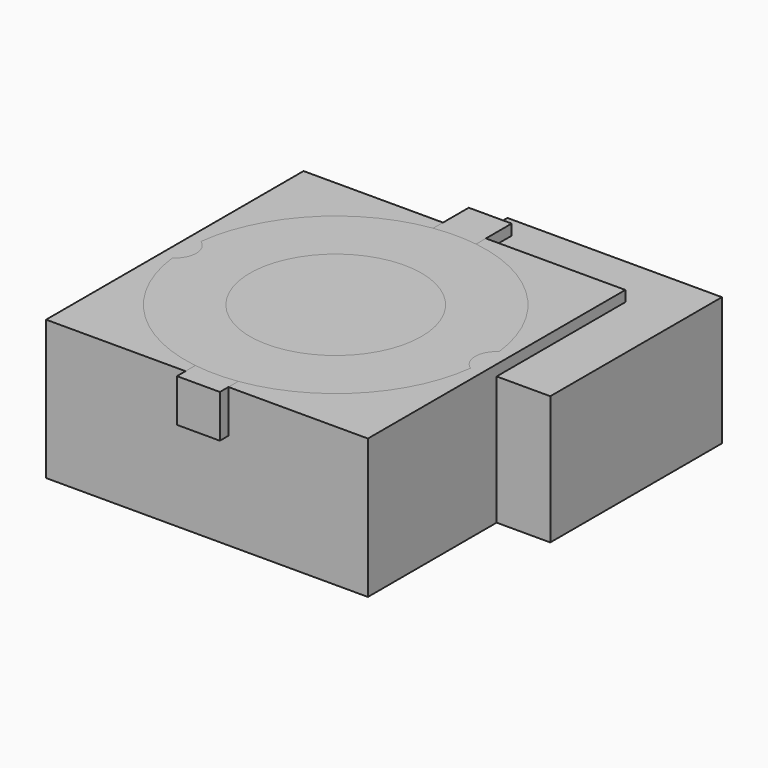
from build123d import *

# Parameters (mm, degrees)
BOX_W             = 15
BOX_H             = 15
BOX_DEPTH         = 6.5
BOX001_W          = 2
BOX001_H          = 3
BOX001_DEPTH      = 2
BOX002_W          = 2
BOX002_H          = 3
BOX002_DEPTH      = 2
CYLINDER_R        = 4.5
CYLINDER_DEPTH    = 1.4
CYLINDER003_R     = 1
CYLINDER003_DEPTH = 10
CYLINDER004_R     = 1
CYLINDER004_DEPTH = 10
CYLINDER001_R     = 4
CYLINDER001_DEPTH = 0.6
CYLINDER002_R     = 7
CYLINDER002_DEPTH = 2
BOX003_W          = 10
BOX003_H          = 10
BOX003_DEPTH      = 6


with BuildPart() as cube:
    # Box → Box (new body)
    with BuildSketch(Plane(origin=(-7.5, -7.5, 0), x_dir=(1, 0, 0), z_dir=(0, 0, 1))):
        with Locations((7.5, 7.5)):
            Rectangle(BOX_W, BOX_H)
    extrude(amount=BOX_DEPTH)


with BuildPart() as cube001:
    # Box001 → Box001 (new body)
    with BuildSketch(Plane(origin=(-1, -8, 4.5), x_dir=(1, 0, 0), z_dir=(0, 0, 1))):
        with Locations((1, 1.5)):
            Rectangle(BOX001_W, BOX001_H)
    extrude(amount=BOX001_DEPTH)


with BuildPart() as cube002:
    # Box002 → Box002 (new body)
    with BuildSketch(Plane(origin=(-1, 6, 4.5), x_dir=(1, 0, 0), z_dir=(0, 0, 1))):
        with Locations((1, 1.5)):
            Rectangle(BOX002_W, BOX002_H)
    extrude(amount=BOX002_DEPTH)


with BuildPart() as innerhole:
    # Cylinder → Cylinder (new body)
    with BuildSketch(Plane.XY):
        Circle(CYLINDER_R)
    extrude(amount=CYLINDER_DEPTH)


with BuildPart() as cylinder002:
    # Cylinder003 → Cylinder003 (new body)
    with BuildSketch(Plane(origin=(7.5, 0, 0), x_dir=(1, 0, 0), z_dir=(0, 0, 1))):
        Circle(CYLINDER003_R)
    extrude(amount=CYLINDER003_DEPTH)


with BuildPart() as cylinder003:
    # Cylinder004 → Cylinder004 (new body)
    with BuildSketch(Plane(origin=(-7.5, 0, 0), x_dir=(1, 0, 0), z_dir=(0, 0, 1))):
        Circle(CYLINDER004_R)
    extrude(amount=CYLINDER004_DEPTH)


with BuildPart() as fusion:
    # Cylinder001 → Cylinder001 (new body)
    with BuildSketch(Plane.XY.offset(1.4)):
        Circle(CYLINDER001_R)
    extrude(amount=CYLINDER001_DEPTH)

    # Fusion: union InnerHole, Cylinder002, Cylinder003
    add(innerhole.part)
    add(cylinder002.part)
    add(cylinder003.part)


with BuildPart() as cut:
    # Cylinder002 → Cylinder002 (new body)
    with BuildSketch(Plane.XY):
        Circle(CYLINDER002_R)
    extrude(amount=CYLINDER002_DEPTH)

    # Cut: cut Fusion
    add(fusion.part, mode=Mode.SUBTRACT)


with BuildPart() as cut_1:
    # Cut placement: moved
    add(cut.part.moved(Location((0, 0, 4.5))))


with BuildPart() as cube003:
    # Box003 → Box003 (new body)
    with BuildSketch(Plane.XY):
        with Locations((5, 5)):
            Rectangle(BOX003_W, BOX003_H)
    extrude(amount=BOX003_DEPTH)


solid = Compound([cube.part, cube001.part, cube002.part, cut_1.part, cube003.part])
